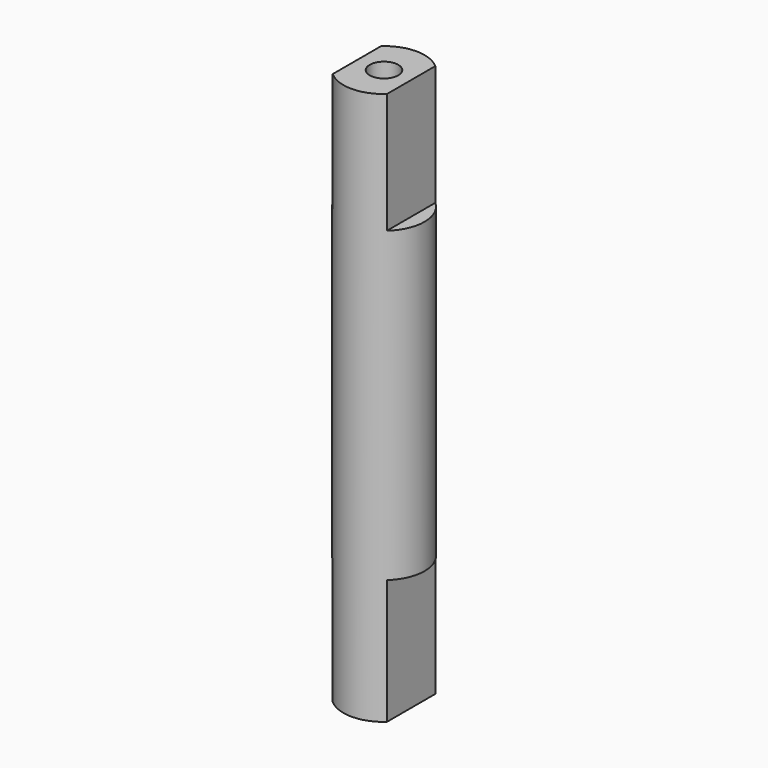
from build123d import *

# Parameters (mm, degrees)
SKETCH052_R     = 2.7
PAD038_DEPTH    = 19
PAD039_DEPTH    = 17.74
SKETCH053_R     = 0.95
POCKET009_DEPTH = 8.3
SKETCH081_R     = 0.95
POCKET025_DEPTH = 8


with BuildPart() as part:
    # Sketch052 (on ShapeBinder) → Pad038 (new body)
    with BuildSketch(Plane(origin=(0, 0, 0), x_dir=(-1, 0, 0), z_dir=(0, 0, 1))):
        with Locations((0, 37.1)):
            Circle(SKETCH052_R)
    extrude(amount=PAD038_DEPTH)

    # Sketch052 (on ShapeBinder) → Pad039 (join)
    with BuildSketch(Plane(origin=(0, 0, 0), x_dir=(-1, 0, 0), z_dir=(0, 0, 1))):
        with Locations((0, 37.1)):
            Circle(SKETCH052_R)
    extrude(amount=-PAD039_DEPTH)

    # Sketch053 (on Face1 of Pad039) → Pocket009 (cut)
    with BuildSketch(Plane(origin=(0, 0, -17.74), x_dir=(1, 0, 0), z_dir=(0, 0, -1))):
        with Locations((0, 37.1)):
            Circle(SKETCH053_R)
        with BuildLine():
            Line((-1.8, 35.0875388203), (-1.8, 39.1124611797))
            ThreePointArc((-1.8, 39.1124611797), (-2.7, 37.1), (-1.8, 35.0875388203))
        make_face()
        with BuildLine():
            Line((1.8, 39.1124611797), (1.8, 35.0875388203))
            ThreePointArc((1.8, 35.0875388203), (2.7, 37.1), (1.8, 39.1124611797))
        make_face()
    extrude(amount=-POCKET009_DEPTH, mode=Mode.SUBTRACT)

    # Sketch081 (on Face8 of Pocket009) → Pocket025 (cut)
    with BuildSketch(Plane(origin=(0, 0, 19), x_dir=(-1, 0, 0), z_dir=(0, 0, 1))):
        with Locations((0, 37.1)):
            Circle(SKETCH081_R)
        with BuildLine():
            ThreePointArc((-1.8, 39.1124611797), (-2.7, 37.1), (-1.8, 35.0875388203))
            Line((-1.8, 39.1124611797), (-1.8, 35.0875388203))
        make_face()
        with BuildLine():
            Line((1.8, 39.1124611797), (1.8, 35.0875388203))
            ThreePointArc((1.8, 35.0875388203), (2.7, 37.1), (1.8, 39.1124611797))
        make_face()
    extrude(amount=-POCKET025_DEPTH, mode=Mode.SUBTRACT)


with BuildPart() as part_1:
    # Body024 placement: moved
    add(part.part.moved(Location((0, 37.1, 0))))


solid = part_1.part
